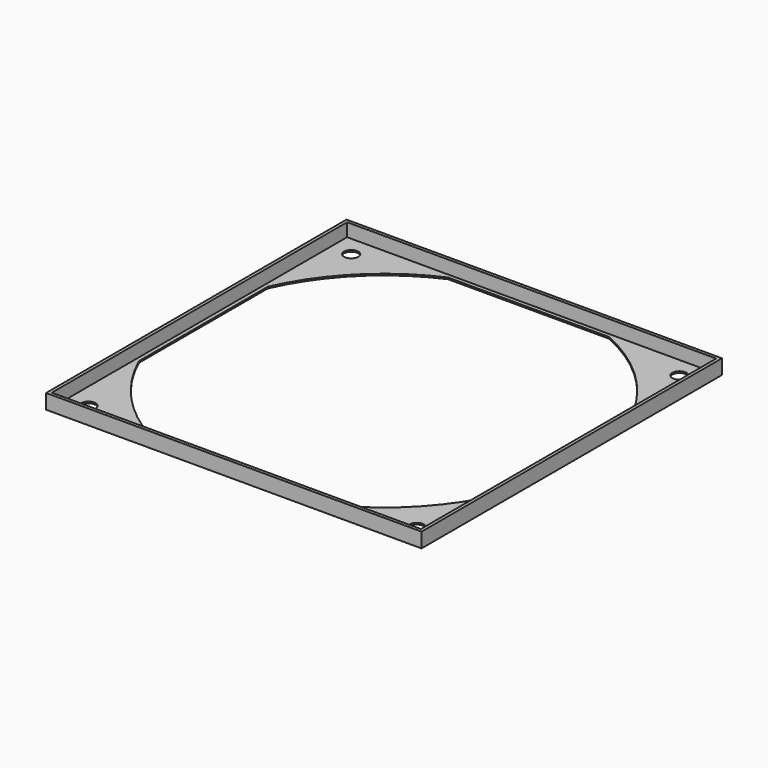
from build123d import *

# Parameters (mm, degrees)
F1_W     = 142.4
F1_H     = 142.4
F4_DEPTH = 0.6
F2_W     = 142.4
F2_H     = 142.4
F2_W_2   = 140
F2_H_2   = 140
F5_DEPTH = 5
F3_R     = 2.7
F6_DEPTH = 0.601


with BuildPart() as f4:
    # F1 (on Top) → F4 (new body)
    with BuildSketch(Plane.XY):
        Rectangle(F1_W, F1_H)
        with BuildLine():
            ThreePointArc((-68.5, 30.540956), (-53.033009, 53.033009), (-30.540956, 68.5))
            Line((-30.540956, 68.5), (30.540956, 68.5))
            ThreePointArc((30.540956, 68.5), (53.033009, 53.033009), (68.5, 30.540956))
            Line((68.5, 30.540956), (68.5, -30.540956))
            ThreePointArc((68.5, -30.540956), (53.033009, -53.033009), (30.540956, -68.5))
            Line((30.540956, -68.5), (-30.540956, -68.5))
            ThreePointArc((-30.540956, -68.5), (-53.033009, -53.033009), (-68.5, -30.540956))
            Line((-68.5, -30.540956), (-68.5, 30.540956))
        make_face(mode=Mode.SUBTRACT)
    extrude(amount=-F4_DEPTH)

    # F2 (on Top) → F5 (join)
    with BuildSketch(Plane.XY):
        Rectangle(F2_W, F2_H)
        Rectangle(F2_W_2, F2_H_2, mode=Mode.SUBTRACT)
    extrude(amount=F5_DEPTH)

    # F3 (on Top) → F6 (cut, through all)
    with BuildSketch(Plane.XY):
        with Locations((62.25, 62.25)):
            Circle(F3_R)
        with Locations((-62.25, 62.25)):
            Circle(F3_R)
        with Locations((-62.25, -62.25)):
            Circle(F3_R)
        with Locations((62.25, -62.25)):
            Circle(F3_R)
    extrude(amount=-F6_DEPTH, mode=Mode.SUBTRACT)


solid = f4.part
